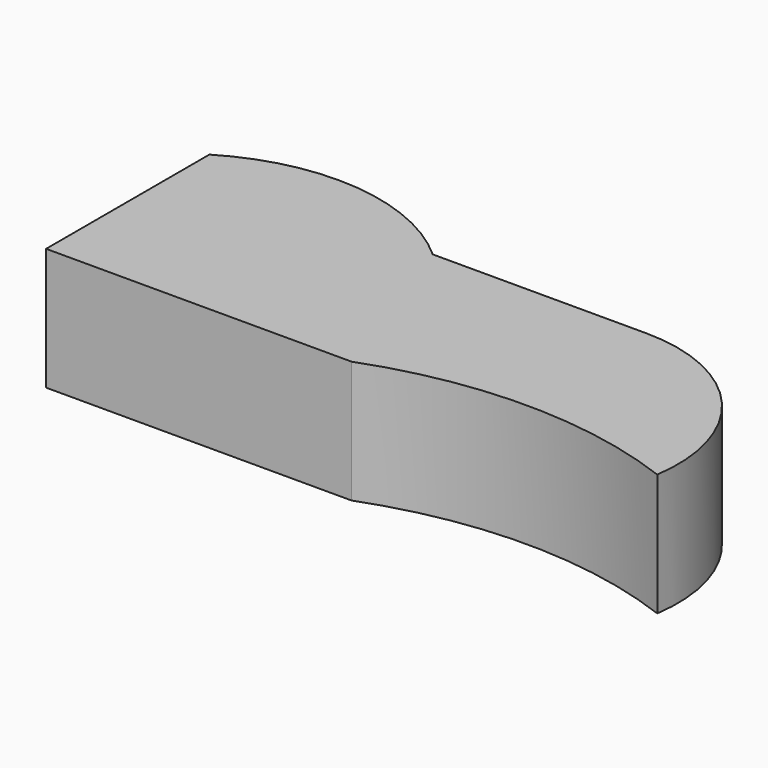
from build123d import *

# Parameters (mm, degrees)
F1_DEPTH = 40


with BuildPart() as f1:
    # F0 (on Top) → F1 (new body)
    with BuildSketch(Plane.XY):
        with BuildLine():
            Line((-115.038375, 41.817974), (-115.038375, -24.966624))
            Line((-115.038375, -24.966624), (-15.038375, -24.966624))
            ThreePointArc((-15.038375, -24.966624), (34.961625, -15.877098), (84.961625, -24.966624))
            ThreePointArc((84.961625, -24.966624), (73.019006, 16.39998), (33.880971, 34.345347))
            Line((33.880971, 34.345347), (-35.959359, 34.345347))
            ThreePointArc((-35.959359, 34.345347), (-74.266866, 51.1193), (-115.038375, 41.817974))
        make_face()
    extrude(amount=F1_DEPTH)


solid = f1.part
